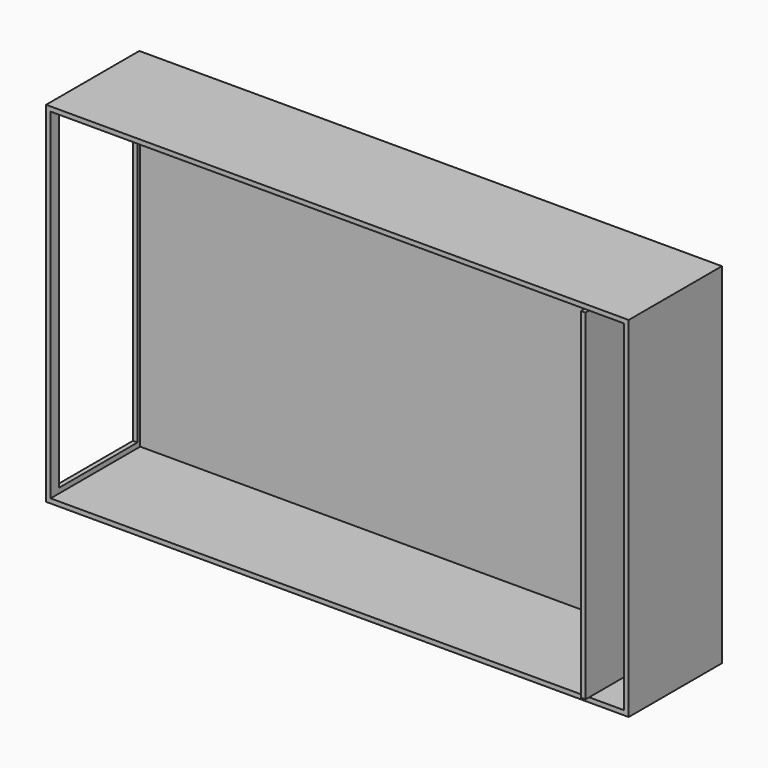
from build123d import *

# Parameters (mm, degrees)
F0_W     = 127
F0_H     = 76.2
F1_DEPTH = 25.4
F2_T     = -0.9906
F3_W     = 0.9906
F3_H     = 74.2188
F4_DEPTH = 25.4
F5_W     = 21.4376
F5_H     = 72.2376
F6_DEPTH = 25.4


with BuildPart() as f1:
    # F0 (on Front) → F1 (new body)
    with BuildSketch(Plane.XZ):
        Rectangle(F0_W, F0_H)
    extrude(amount=F1_DEPTH)

    # F2
    f2_openings = [f1.faces().sort_by_distance(p)[0] for p in [
        (0, -25.4, 0),
    ]]
    offset(amount=F2_T, openings=f2_openings)

    # F3 (on face) → F4 (join)
    with BuildSketch(Plane.XZ.offset(0.9906)):
        with Locations((54.391131, 0)):
            Rectangle(F3_W, F3_H)
    extrude(amount=F4_DEPTH)

    # F5 (on face) → F6 (cut)
    with BuildSketch(Plane(origin=(-63.5, 0, 0), x_dir=(0, -1, 0), z_dir=(-1, 0, 0))):
        with Locations((12.447563, 0.106448)):
            Rectangle(F5_W, F5_H)
    extrude(amount=-F6_DEPTH, mode=Mode.SUBTRACT)


solid = f1.part
